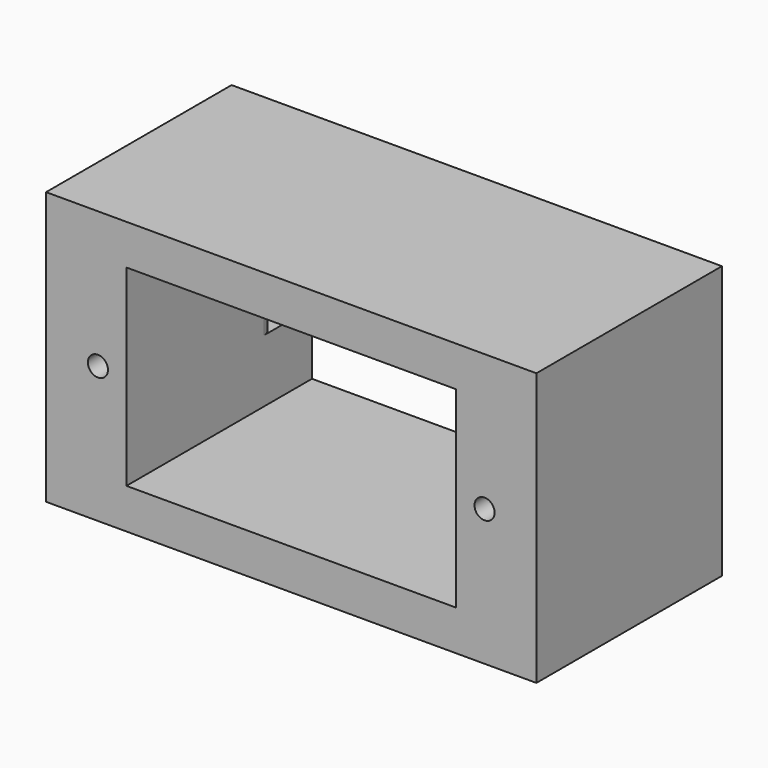
from build123d import *

# Parameters (mm, degrees)
SKETCH031_W             = 36.6
SKETCH031_H             = 20.35
SKETCH031_W_2           = 24.6
SKETCH031_H_2           = 14.35
PAD017_DEPTH            = 17.31
SKETCH033_R             = 0.75
POCKET010_DEPTH         = 10
SKETCH032_W             = 3
SKETCH032_H             = 5
POCKET009_DEPTH         = 3.5
FILLET010_R             = 1
FILLET013_R             = 1
FILLET011_R             = 1
FILLET012_R             = 1
BODY007_PLACEMENT_ANGLE = 180


with BuildPart() as part:
    # Sketch031 (on Face1 of ReferencePocket004) → Pad017 (new body)
    with BuildSketch(Plane.XZ):
        with Locations((11.3, 6.175)):
            Rectangle(SKETCH031_W, SKETCH031_H)
        with Locations((11.3, 6.175)):
            Rectangle(SKETCH031_W_2, SKETCH031_H_2, mode=Mode.SUBTRACT)
    extrude(amount=-PAD017_DEPTH)

    # Sketch033 (on Face10 of Pad016) → Pocket010 (cut)
    with BuildSketch(Plane(origin=(0, 19.97, 0), x_dir=(-1, 0, 0), z_dir=(0, 1, 0))):
        with Locations((-25.73, 6.175)):
            Circle(SKETCH033_R)
        with Locations((3.13, 6.175)):
            Circle(SKETCH033_R)
    extrude(amount=-POCKET010_DEPTH, mode=Mode.SUBTRACT)

    # Sketch032 (on Face4 of Pocket010) → Pocket009 (cut)
    with BuildSketch(Plane.XZ):
        with Locations((-2.5, 6.175)):
            Rectangle(SKETCH032_W, SKETCH032_H)
        with Locations((25.1, 6.175)):
            Rectangle(SKETCH032_W, SKETCH032_H)
    extrude(amount=-POCKET009_DEPTH, mode=Mode.SUBTRACT)

    # Fillet010
    fillet010_edges = [part.edges().sort_by_distance(p)[0] for p in [
        (26.6, 0, 6.175),
    ]]
    fillet(fillet010_edges, radius=FILLET010_R)

    # Fillet013
    fillet013_edges = [part.edges().sort_by_distance(p)[0] for p in [
        (23.6, 3.5, 6.175),
    ]]
    fillet(fillet013_edges, radius=FILLET013_R)

    # Fillet011
    fillet011_edges = [part.edges().sort_by_distance(p)[0] for p in [
        (-1, 3.5, 6.175),
    ]]
    fillet(fillet011_edges, radius=FILLET011_R)

    # Fillet012
    fillet012_edges = [part.edges().sort_by_distance(p)[0] for p in [
        (-4, 0, 6.175),
    ]]
    fillet(fillet012_edges, radius=FILLET012_R)


with BuildPart() as part_1:
    # Body007 placement: moved
    add(part.part.moved(Location((215.339996, 8.309999, -25.78))).rotate(Axis((215.339996, 8.309999, -25.78), (0, 0, 1)), BODY007_PLACEMENT_ANGLE))


solid = part_1.part
